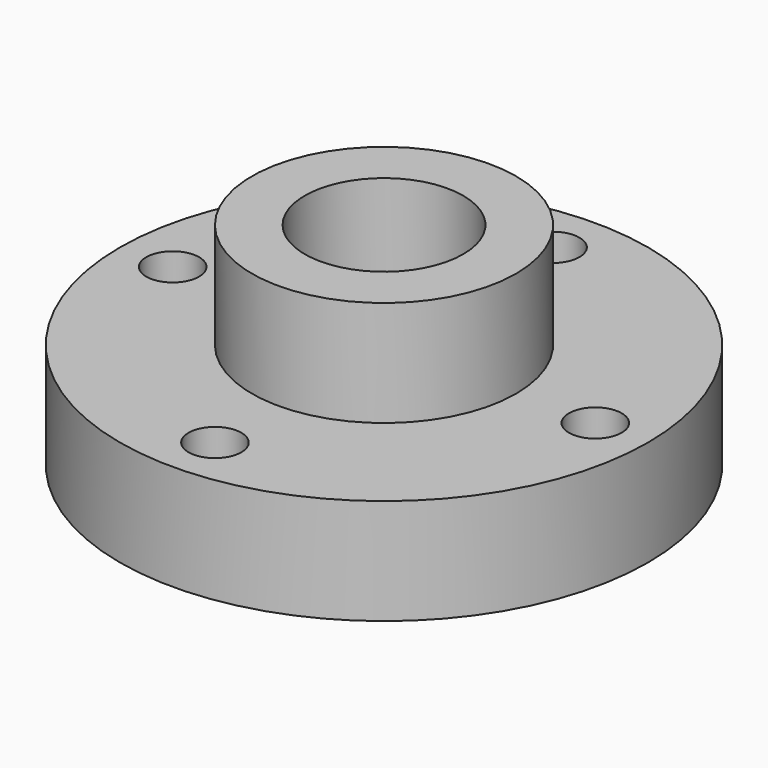
from build123d import *

# Parameters (mm, degrees)
F0_R     = 31.75
F1_DEPTH = 6.35
F2_R     = 15.875
F3_DEPTH = 12.7
F4_R     = 9.525
F5_DEPTH = 25.401
F6_R     = 3.175
F7_DEPTH = 12.701


with BuildPart() as f1:
    # F0 (on Top) → F1 (new body, symmetric)
    with BuildSketch(Plane.XY):
        Circle(F0_R)
    extrude(amount=F1_DEPTH, both=True)

    # F2 (on face) → F3 (join)
    with BuildSketch(Plane.XY.offset(6.35)):
        Circle(F2_R)
    extrude(amount=F3_DEPTH)

    # F4 (on face) → F5 (cut, through all)
    with BuildSketch(Plane.XY.offset(19.05)):
        Circle(F4_R)
    extrude(amount=-F5_DEPTH, mode=Mode.SUBTRACT)

    # F6 (on face) → F7 (cut, through all)
    with BuildSketch(Plane.XY.offset(6.35)):
        with Locations((0, 25.4)):
            Circle(F6_R)
        with Locations((25.4, 0)):
            Circle(F6_R)
        with Locations((0, -25.4)):
            Circle(F6_R)
        with Locations((-25.4, 0)):
            Circle(F6_R)
    extrude(amount=-F7_DEPTH, mode=Mode.SUBTRACT)


solid = f1.part
